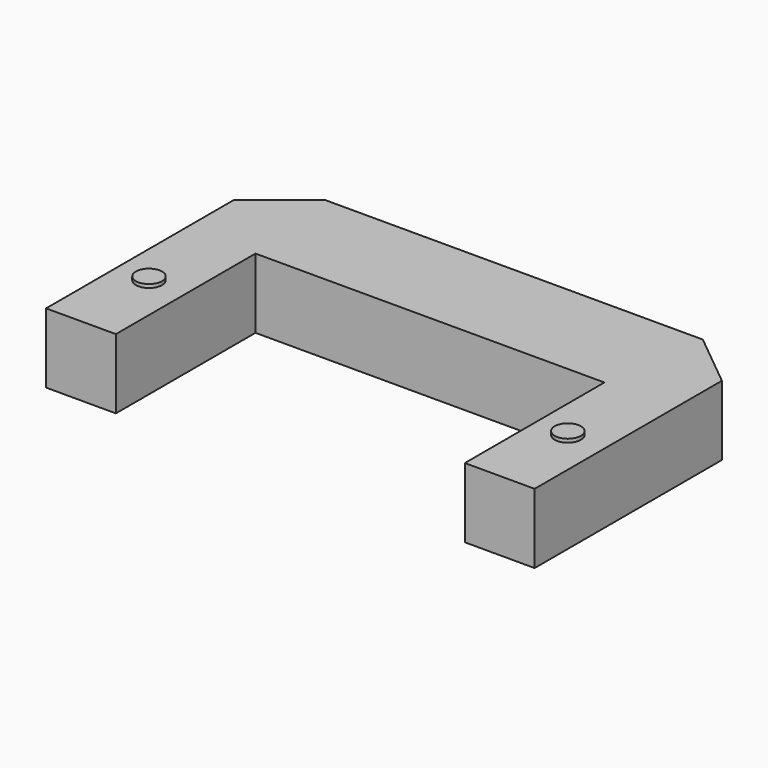
from build123d import *

# Parameters (mm, degrees)
F0_W     = 25.4
F0_H     = 63.5
F1_DEPTH = 25.4
F3_DEPTH = 25.4
F4_R     = 4.7625
F5_DEPTH = 1.27
F7_DEPTH = 1.27


with BuildPart() as f1:
    # F0 (on Top) → F1 (new body)
    with BuildSketch(Plane.XY):
        Polygon((95.231725046, 52.6741128501), (-82.568274954, 52.6741128501), (-82.568274954, 14.5741128501), (-57.168274954, 14.5741128501), (69.831725046, 14.5741128501), (95.231725046, 14.5741128501), align=None)
        with Locations((-69.868274954, -17.1758871499)):
            Rectangle(F0_W, F0_H)
        with Locations((82.531725046, -17.1758871499)):
            Rectangle(F0_W, F0_H)
    extrude(amount=F1_DEPTH)

    # F2 (on face) → F3 (cut)
    with BuildSketch(Plane.XY.offset(25.4)):
        Polygon((-104.4803282541, 40.2830914566), (-99.053036825, 22.9674405237), (-44.5216608105, 67.1611169851), (-66.7477198675, 76.2066116208), align=None)
        Polygon((81.9489609954, 70.5137167564), (63.5293972251, 62.1673528543), (115.3344315049, 19.8599052123), (133.17838577, 37.4160547248), align=None)
    extrude(amount=-F3_DEPTH, mode=Mode.SUBTRACT)

    # F4 (on face) → F5 (join)
    with BuildSketch(Plane.XY.offset(25.4)):
        with Locations((-70.5124139786, -17.1758871499)):
            Circle(F4_R)
        with Locations((81.896725046, -17.1758871499)):
            Circle(F4_R)
    extrude(amount=F5_DEPTH)

    # F6 (on face) → F7 (join)
    with BuildSketch(Plane(origin=(0, 0, 0), x_dir=(1, 0, 0), z_dir=(0, 0, -1))):
        with BuildLine():
            ThreePointArc((82.531725046, 21.9383871499), (77.769225046, 17.1758871499), (82.531725046, 12.4133871499))
            Line((82.531725046, 12.4133871499), (82.531725046, 21.9383871499))
        make_face()
        with BuildLine():
            Line((82.531725046, 21.9383871499), (82.531725046, 12.4133871499))
            ThreePointArc((82.531725046, 12.4133871499), (85.8993210914, 13.8082911045), (87.294225046, 17.1758871499))
            ThreePointArc((87.294225046, 17.1758871499), (85.8993210914, 20.5434831953), (82.531725046, 21.9383871499))
        make_face()
        with BuildLine():
            ThreePointArc((-70.0870901346, 12.4133871499), (-66.7194940892, 13.8082911045), (-65.3245901346, 17.1758871499))
            ThreePointArc((-65.3245901346, 17.1758871499), (-66.7194940892, 20.5434831953), (-70.0870901346, 21.9383871499))
            Line((-70.0870901346, 21.9383871499), (-70.0870901346, 12.4133871499))
        make_face()
        with BuildLine():
            Line((-70.0870901346, 12.4133871499), (-70.0870901346, 21.9383871499))
            ThreePointArc((-70.0870901346, 21.9383871499), (-74.8495901346, 17.1758871499), (-70.0870901346, 12.4133871499))
        make_face()
    extrude(amount=F7_DEPTH)


solid = f1.part
